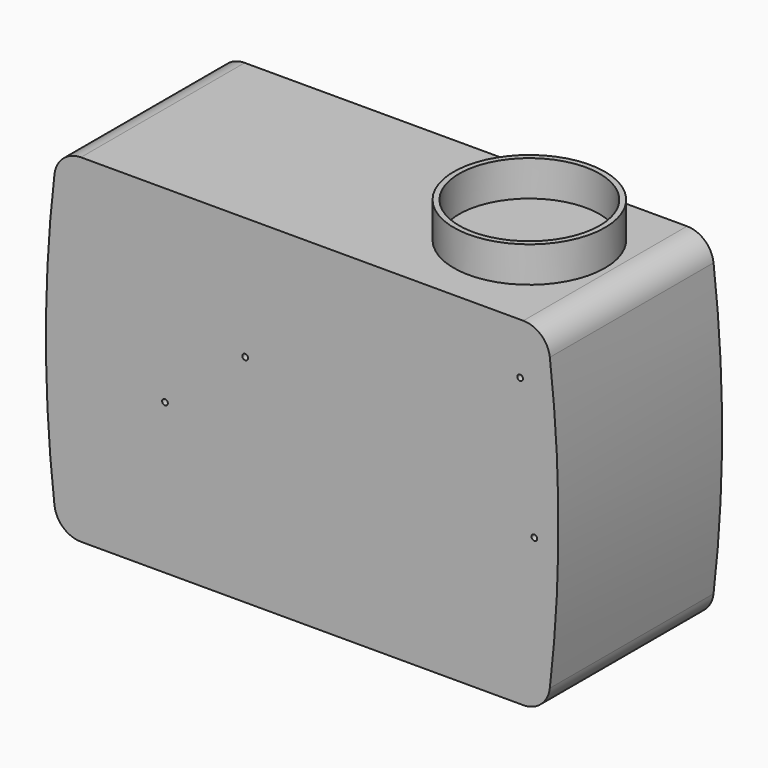
from build123d import *

# Parameters (mm, degrees)
F1_DEPTH = 115
F2_D     = 3.2
F2_DEPTH = 20
F2_TIP   = 0.9613769904
F3_R     = 42.5
F3_R_2   = 39.5
F4_DEPTH = 20


with BuildPart() as f1:
    # F0 (on Front) → F1 (new body)
    with BuildSketch(Plane.XZ):
        with BuildLine():
            ThreePointArc((-1.6878500476, 13.2459854015), (3.2420540262, 3.7904010112), (13.2092447292, 0))
            Line((13.2092447292, 0), (261.8105676743, 0))
            ThreePointArc((261.8105676743, 0), (271.7777583774, 3.7904010112), (276.7076624511, 13.2459854015))
            ThreePointArc((276.7076624511, 13.2459854015), (281.5099062018, 95.1), (276.7076624511, 176.9540145985))
            ThreePointArc((276.7076624511, 176.9540145985), (271.7777583774, 186.4095989888), (261.8105676743, 190.2))
            Line((261.8105676743, 190.2), (13.2092447292, 190.2))
            ThreePointArc((13.2092447292, 190.2), (3.2420540262, 186.4095989888), (-1.6878500476, 176.9540145985))
            ThreePointArc((-1.6878500476, 176.9540145985), (-6.4900937982, 95.1), (-1.6878500476, 13.2459854015))
        make_face()
    extrude(amount=-F1_DEPTH)

    # F2
    with Locations(Plane.XZ):
        with Locations((60.4099062018, 84.4), (105.5099062018, 121.4), (268.0099062018, 84.9), (260.0099062018, 161.4)):
            Hole(F2_D / 2, depth=F2_DEPTH)
            with Locations((0, 0, -(F2_DEPTH + F2_TIP / 2))):  # 118° drill point
                Cone(0, F2_D / 2, F2_TIP, mode=Mode.SUBTRACT)

    # F3 (on face) → F4 (join)
    with BuildSketch(Plane.XY.offset(190.2)):
        with Locations((216.0099062018, 61.5)):
            Circle(F3_R)
        with Locations((216.0099062018, 61.5)):
            Circle(F3_R_2, mode=Mode.SUBTRACT)
    extrude(amount=F4_DEPTH)


solid = f1.part
